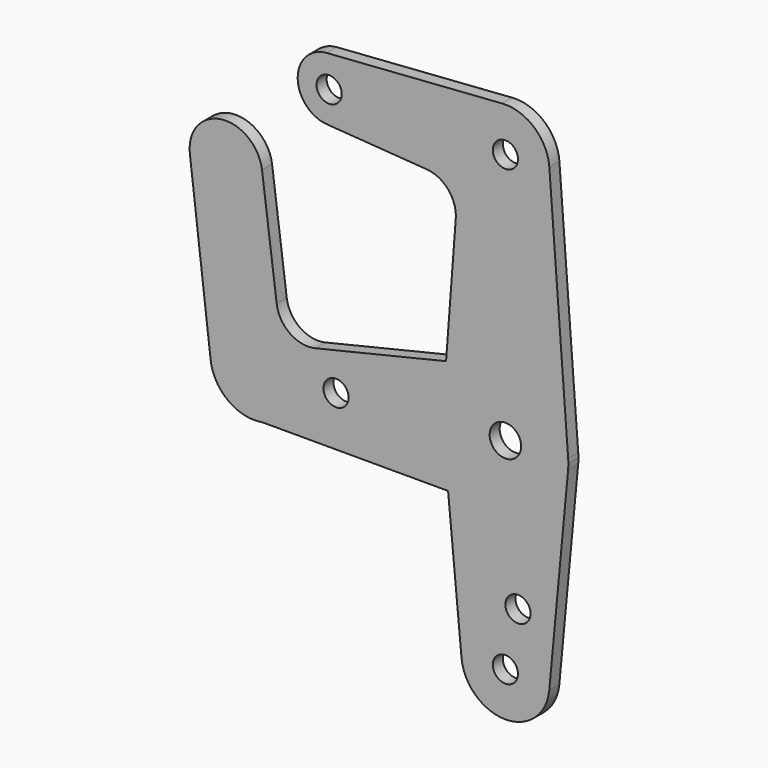
from build123d import *

# Parameters (mm, degrees)
F0_R     = 3.175
F0_R_2   = 3.9751
F1_DEPTH = 3.175


with BuildPart() as f1:
    # F0 (on Front) → F1 (new body)
    with BuildSketch(Plane.XZ):
        with BuildLine():
            ThreePointArc((-45.0169642857, 55.582774618), (-39.0415054205, 57.6903448782), (-36.5125, 63.5))
            ThreePointArc((-36.5125, 63.5), (-39.0415054205, 69.3096551218), (-45.0169642857, 71.417225382))
            ThreePointArc((-45.0169642857, 71.417225382), (-52.3875, 63.5), (-45.0169642857, 55.582774618))
        make_face()
        with Locations((-44.45, 63.5)):
            Circle(F0_R, mode=Mode.SUBTRACT)
        with BuildLine():
            ThreePointArc((-45.0169642857, 71.417225382), (-39.0415054205, 69.3096551218), (-36.5125, 63.5))
            ThreePointArc((-36.5125, 63.5), (-39.0415054205, 57.6903448782), (-45.0169642857, 55.582774618))
            Line((-45.0169642857, 55.582774618), (-19.875970633, 53.7823906678))
            ThreePointArc((-19.875970633, 53.7823906678), (-14.4257039105, 51.0474657939), (-12.5160335315, 45.2562327252))
            Line((-12.5160335315, 45.2562327252), (-14.9602888471, 12.7579506851))
            Line((-14.9602888471, 12.7579506851), (-3.6754797451, 15.443654802))
            ThreePointArc((-3.6754797451, 15.443654802), (9.3660055092, 12.8177051691), (15.8302885984, 1.190625))
            Line((15.8302885984, 1.190625), (11.0812020189, 64.3334375))
            ThreePointArc((11.0812020189, 64.3334375), (11.1046727481, 63.9170124788), (11.1125, 63.5))
            ThreePointArc((11.1125, 63.5), (-7.5718924112, 55.3664828295), (-0.79375, 74.5841155347))
            Line((-0.79375, 74.5841155347), (-45.0169642857, 71.417225382))
        make_face()
        with BuildLine():
            ThreePointArc((11.0812020189, 64.3334375), (7.2613371567, 71.9119343166), (-0.79375, 74.5841155347))
            ThreePointArc((-0.79375, 74.5841155347), (-7.5718924112, 55.3664828295), (11.1125, 63.5))
            ThreePointArc((11.1125, 63.5), (11.1046727481, 63.9170124788), (11.0812020189, 64.3334375))
        make_face()
        with Locations((0, 63.5)):
            Circle(F0_R, mode=Mode.SUBTRACT)
        with BuildLine():
            ThreePointArc((15.875, 0), (15.8638182116, 0.5957321126), (15.8302885984, 1.190625))
            ThreePointArc((15.8302885984, 1.190625), (9.3660055092, 12.8177051691), (-3.6754797451, 15.443654802))
            ThreePointArc((-3.6754797451, 15.443654802), (-12.079154122, 10.3009543586), (-15.8302885984, 1.190625))
            ThreePointArc((-15.8302885984, 1.190625), (-15.87429735, -0.1493607821), (-15.8050828508, -1.48828125))
            ThreePointArc((-15.8050828508, -1.48828125), (-10.6861864142, -11.7397208196), (0, -15.875))
            ThreePointArc((0, -15.875), (10.6861864142, -11.7397208196), (15.8050828508, -1.48828125))
            ThreePointArc((15.8050828508, -1.48828125), (15.8575110792, -0.7449613223), (15.875, 0))
        make_face()
        Circle(F0_R_2, mode=Mode.SUBTRACT)
        with BuildLine():
            Line((-3.6754797451, 15.443654802), (-14.9602888471, 12.7579506851))
            Line((-14.9602888471, 12.7579506851), (-15.8302885984, 1.190625))
            ThreePointArc((-15.8302885984, 1.190625), (-12.079154122, 10.3009543586), (-3.6754797451, 15.443654802))
        make_face()
        with BuildLine():
            Line((-15.8302885984, 1.190625), (-14.9602888471, 12.7579506851))
            Line((-14.9602888471, 12.7579506851), (-47.9540109961, 4.9056800257))
            ThreePointArc((-47.9540109961, 4.9056800257), (-54.3099823949, 6.0963292117), (-57.6786986111, 11.6160908878))
            Line((-57.6786986111, 11.6160908878), (-61.3800056014, 40.1196511162))
            ThreePointArc((-61.3800056014, 40.1196511162), (-61.3227612602, 39.5304306003), (-61.3036532702, 38.9387443526))
            ThreePointArc((-61.3036532702, 38.9387443526), (-69.9323928797, 29.7843081563), (-79.5805540968, 37.8572155911))
            Line((-79.5805540968, 37.8572155911), (-74.3432922103, -6.2404264038))
            ThreePointArc((-74.3432922103, -6.2404264038), (-63.9647742581, 6.1632354994), (-52.1958445171, -4.929859481))
            ThreePointArc((-52.1958445171, -4.929859481), (-54.7983924089, -12.0760732593), (-61.3870024681, -15.875))
            Line((-61.3870024681, -15.875), (-14.4503614636, -15.875))
            Line((-14.4503614636, -15.875), (-15.8050828508, -1.48828125))
            ThreePointArc((-15.8050828508, -1.48828125), (-15.87429735, -0.1493607821), (-15.8302885984, 1.190625))
        make_face()
        with Locations((-42.7204708801, -3.3266691778)):
            Circle(F0_R, mode=Mode.SUBTRACT)
        with BuildLine():
            Line((11.0635579956, -51.841796875), (15.8050828508, -1.48828125))
            ThreePointArc((15.8050828508, -1.48828125), (10.6861864142, -11.7397208196), (0, -15.875))
            Line((0, -15.875), (-14.4503614636, -15.875))
            Line((-14.4503614636, -15.875), (-11.0635579956, -51.841796875))
            ThreePointArc((-11.0635579956, -51.841796875), (-0.5214729256, -39.6997422445), (11.1125, -50.8))
            ThreePointArc((11.1125, -50.8), (11.1002577555, -51.3214729256), (11.0635579956, -51.841796875))
        make_face()
        with Locations((3.175, -36.386942851)):
            Circle(F0_R, mode=Mode.SUBTRACT)
        with BuildLine():
            ThreePointArc((0, -15.875), (-10.6861864142, -11.7397208196), (-15.8050828508, -1.48828125))
            Line((-15.8050828508, -1.48828125), (-14.4503614636, -15.875))
            Line((-14.4503614636, -15.875), (0, -15.875))
        make_face()
        with BuildLine():
            ThreePointArc((-11.0635579956, -51.841796875), (0, -61.9125), (11.0635579956, -51.841796875))
            ThreePointArc((11.0635579956, -51.841796875), (11.1002577555, -51.3214729256), (11.1125, -50.8))
            ThreePointArc((11.1125, -50.8), (-0.5214729256, -39.6997422445), (-11.0635579956, -51.841796875))
        make_face()
        with Locations((0, -50.8)):
            Circle(F0_R, mode=Mode.SUBTRACT)
        with BuildLine():
            ThreePointArc((-61.3036532702, 38.9387443526), (-61.3227612602, 39.5304306003), (-61.3800056014, 40.1196511162))
            ThreePointArc((-61.3800056014, 40.1196511162), (-71.6053378384, 48.0391542544), (-79.5805540968, 37.8572155911))
            ThreePointArc((-79.5805540968, 37.8572155911), (-69.9323928797, 29.7843081563), (-61.3036532702, 38.9387443526))
        make_face()
        with BuildLine():
            ThreePointArc((-74.3432922103, -6.2404264038), (-69.9393854651, -13.8470873123), (-61.3870024681, -15.875))
            ThreePointArc((-61.3870024681, -15.875), (-54.7983924089, -12.0760732593), (-52.1958445171, -4.929859481))
            ThreePointArc((-52.1958445171, -4.929859481), (-63.9647742581, 6.1632354994), (-74.3432922103, -6.2404264038))
        make_face()
    extrude(amount=F1_DEPTH)


solid = f1.part
